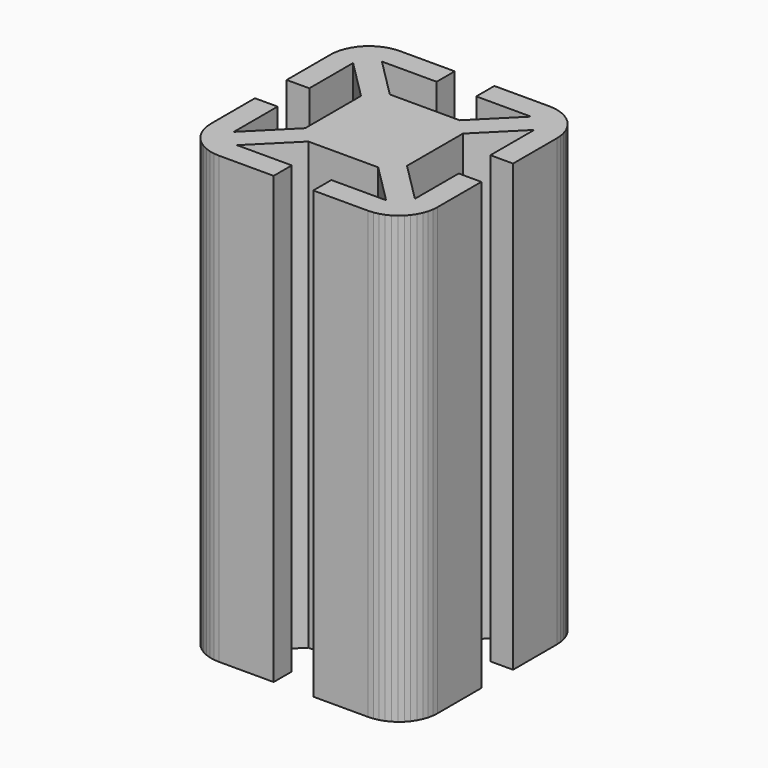
from build123d import *

# Parameters (mm, degrees)
F1_DEPTH = 1000


with BuildPart() as f1:
    # F0 (on Top) → F1 (new body)
    with BuildSketch(Plane.XY):
        Polygon((-247.398743, 200.465665), (-251.04504, 189.72403), (-253.258091, 178.598347), (-254, 167.278964), (-254, 44.45), (-203.2, 44.45), (-203.2, 167.278964), (-114.3, 78.378964), (-114.3, -78.378964), (-203.2, -167.278964), (-203.2, -44.45), (-254, -44.45), (-254, -167.278964), (-253.258091, -178.598347), (-251.04504, -189.72403), (-247.398743, -200.465665), (-242.381583, -210.639482), (-236.079386, -220.071391), (-228.6, -228.6), (-220.071391, -236.079386), (-210.639482, -242.381583), (-200.465665, -247.398743), (-189.72403, -251.04504), (-178.598347, -253.258091), (-167.278964, -254), (-44.45, -254), (-44.45, -203.2), (-167.278964, -203.2), (-78.378964, -114.3), (78.378964, -114.3), (167.278964, -203.2), (44.45, -203.2), (44.45, -254), (167.278964, -254), (178.598347, -253.258091), (189.72403, -251.04504), (200.465665, -247.398743), (210.639482, -242.381583), (220.071391, -236.079386), (228.6, -228.6), (236.079386, -220.071391), (242.381583, -210.639482), (247.398743, -200.465665), (251.04504, -189.72403), (253.258091, -178.598347), (254, -167.278964), (254, -44.45), (203.2, -44.45), (203.2, -167.278964), (114.3, -78.378964), (114.3, 78.378964), (203.2, 167.278964), (203.2, 44.45), (254, 44.45), (254, 167.278964), (253.258091, 178.598347), (251.04504, 189.72403), (247.398743, 200.465665), (242.381583, 210.639482), (236.079386, 220.071391), (228.6, 228.6), (220.071391, 236.079386), (210.639482, 242.381583), (200.465665, 247.398743), (189.72403, 251.04504), (178.598347, 253.258091), (167.278964, 254), (44.45, 254), (44.45, 203.2), (167.278964, 203.2), (78.378964, 114.3), (-78.378964, 114.3), (-167.278964, 203.2), (-44.45, 203.2), (-44.45, 254), (-165.246964, 254), (-167.278964, 254), (-178.598347, 253.258091), (-189.72403, 251.04504), (-200.465665, 247.398743), (-210.639482, 242.381583), (-220.071391, 236.079386), (-228.6, 228.6), (-236.079386, 220.071391), (-242.381583, 210.639482), align=None)
    extrude(amount=F1_DEPTH)


solid = f1.part
